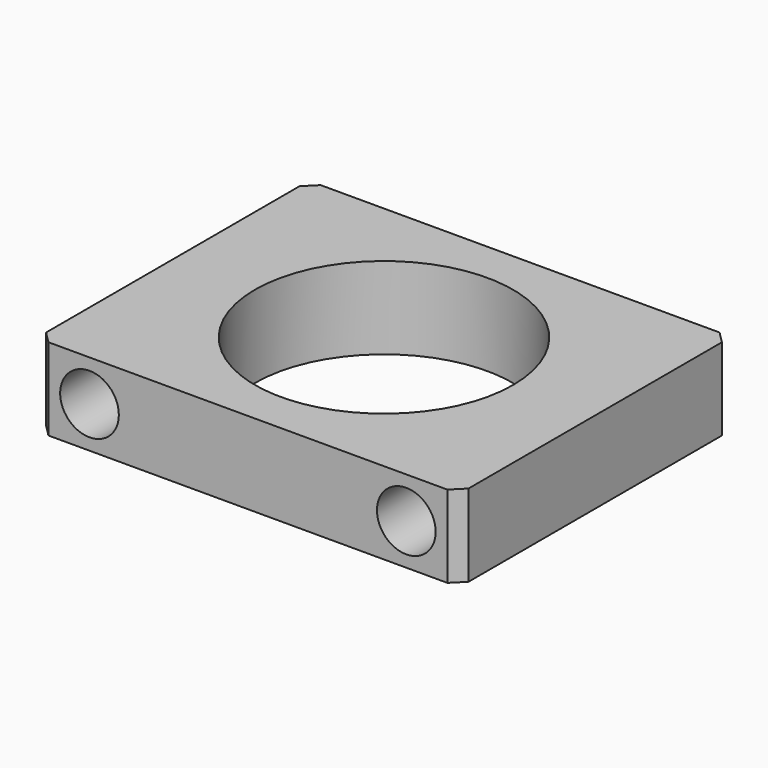
from build123d import *

# Parameters (mm, degrees)
SKETCH_W        = 36
SKETCH_H        = 29
SKETCH_R        = 11
PAD_DEPTH       = 7
SKETCH001_R     = 2.5
POCKET_DEPTH    = 29.001
CHAMFER_SIZE    = 1
CHAMFER001_SIZE = 1
CHAMFER002_SIZE = 1


with BuildPart() as part:
    # Sketch → Pad (new body)
    with BuildSketch(Plane.XY):
        Rectangle(SKETCH_W, SKETCH_H)
        Circle(SKETCH_R, mode=Mode.SUBTRACT)
    extrude(amount=PAD_DEPTH)

    # Sketch001 (on Face3 of Pad) → Pocket (cut, through all)
    with BuildSketch(Plane.XZ.offset(14.5)):
        with Locations((13.5, 3.5)):
            Circle(SKETCH001_R)
        with Locations((-13.5, 3.5)):
            Circle(SKETCH001_R)
    extrude(amount=-POCKET_DEPTH, mode=Mode.SUBTRACT)

    # Chamfer
    chamfer_edges = [part.edges().sort_by_distance(p)[0] for p in [
        (18, -14.5, 3.5),
    ]]
    chamfer(chamfer_edges, length=CHAMFER_SIZE)

    # Chamfer001
    chamfer001_edges = [part.edges().sort_by_distance(p)[0] for p in [
        (-18, -14.5, 3.5),
    ]]
    chamfer(chamfer001_edges, length=CHAMFER001_SIZE)

    # Chamfer002
    chamfer002_edges = [part.edges().sort_by_distance(p)[0] for p in [
        (18, 14.5, 3.5),
        (-18, 14.5, 3.5),
    ]]
    chamfer(chamfer002_edges, length=CHAMFER002_SIZE)


solid = part.part
